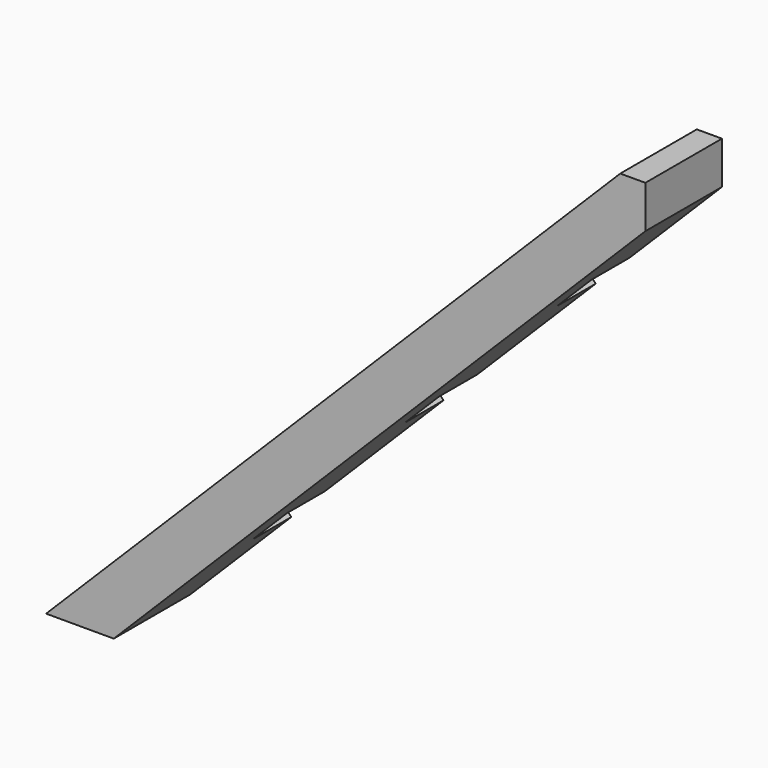
from build123d import *

# Parameters (mm, degrees)
F1_DEPTH = 50.8
F3_DEPTH = 25.4


with BuildPart() as f1:
    # F0 (on Front) → F1 (new body)
    with BuildSketch(Plane.XZ):
        Polygon((304.807853, 304.807853), (0, 0), (35.921024, 0), (318.142853, 282.221829), (318.142853, 304.807853), align=None)
    extrude(amount=F1_DEPTH)

    # F2 (on Front) → F3 (cut)
    with BuildSketch(Plane.XZ):
        Polygon((235.138051, 267.217477), (217.177538, 249.256964), (266.149292, 200.285211), (284.109804, 218.245724), align=None)
        Polygon((77.603452, 101.462855), (59.64294, 83.502342), (106.885168, 36.260115), (124.84568, 54.220627), align=None)
        Polygon((151.667562, 189.043356), (133.707049, 171.082843), (190.513352, 114.27654), (208.473865, 132.237053), align=None)
    extrude(amount=F3_DEPTH, mode=Mode.SUBTRACT)


solid = f1.part
